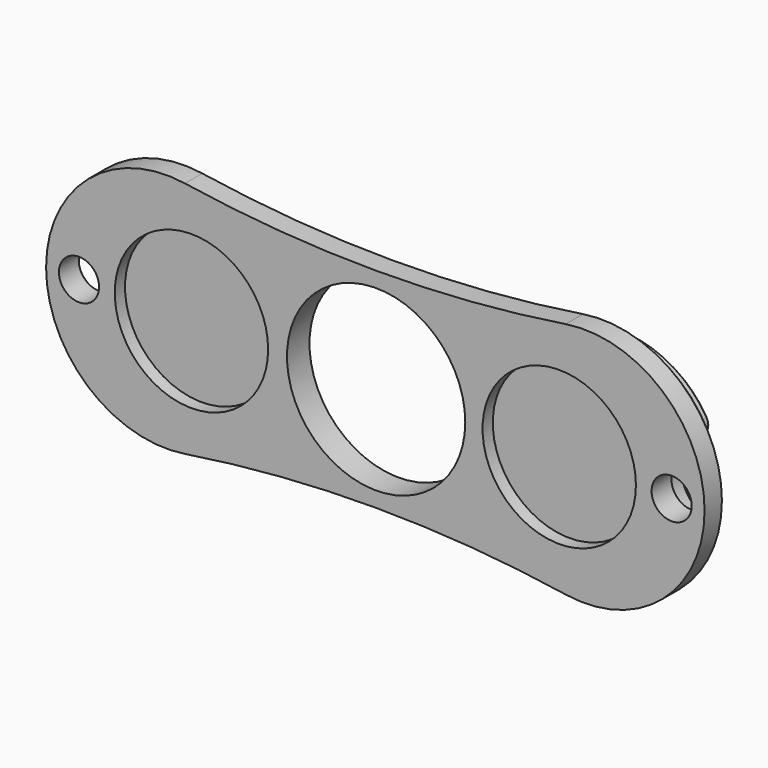
from build123d import *

# Parameters (mm, degrees)
F0_R      = 11.1
F1_DEPTH  = 7
F2_SIZE   = 0.8
F3_R      = 12.5
F4_DEPTH  = 3
F5_R      = 12.5
F6_DEPTH  = 3
F8_R      = 22.5
F9_DEPTH  = 3
F10_R     = 22.5
F11_DEPTH = 3
F12_R     = 5
F13_DEPTH = 3
F14_R     = 5
F15_DEPTH = 3
F16_R     = 5
F17_DEPTH = 3
F18_R     = 5
F19_DEPTH = 3
F20_R     = 1.5
F21_R     = 2.5
F22_DEPTH = 25
F23_R     = 2.5
F24_DEPTH = 25
F25_SIZE  = 0.4
F26_SIZE  = 0.8
F27_W     = 103.2572649419
F27_H     = 49.3412911892
F28_DEPTH = 6.5
F29_R     = 9.55
F30_DEPTH = 1.6


with BuildPart() as f1:
    # F0 (on Front) → F1 (new body)
    with BuildSketch(Plane.XZ):
        with BuildLine():
            ThreePointArc((21.7678643686, 14.8235294118), (-1.9380179843, 13), (-25.6439003372, 14.8235294118))
            ThreePointArc((-25.6439003372, 14.8235294118), (-42.9380179843, 0), (-25.6439003372, -14.8235294118))
            ThreePointArc((-25.6439003372, -14.8235294118), (-1.9380179843, -13), (21.7678643686, -14.8235294118))
            ThreePointArc((21.7678643686, -14.8235294118), (39.0619820157, 0), (21.7678643686, 14.8235294118))
        make_face()
        with Locations((-1.8380179843, 0)):
            Circle(F0_R, mode=Mode.SUBTRACT)
    extrude(amount=F1_DEPTH)

    # F2
    f2_edges = [f1.edges().sort_by_distance(p)[0] for p in [
        (-42.938018, -7, 0),
        (-1.938018, -7, -13),
        (-1.938018, 0, -13),
    ]]
    chamfer(f2_edges, length=F2_SIZE)

    # F3 (on face) → F4 (join)
    with BuildSketch(Plane.XZ.offset(7)):
        with Locations((-27.9380179843, 0)):
            Circle(F3_R)
        with Locations((24.0619820157, 0)):
            Circle(F3_R)
    extrude(amount=F4_DEPTH)

    # F5 (on face) → F6 (join)
    with BuildSketch(Plane(origin=(0, 0, 0), x_dir=(-1, 0, 0), z_dir=(0, 1, 0))):
        with Locations((-24.0619820157, 0)):
            Circle(F5_R)
        with Locations((27.9380179843, 0)):
            Circle(F5_R)
    extrude(amount=F6_DEPTH)

    # F8 (on face) → F9 (cut)
    with BuildSketch(Plane.XZ.offset(10)):
        with Locations((-1.8380179843, 0)):
            Circle(F8_R)
    extrude(amount=-F9_DEPTH, mode=Mode.SUBTRACT)

    # F10 (on face) → F11 (cut)
    with BuildSketch(Plane(origin=(0, 3, 0), x_dir=(-1, 0, 0), z_dir=(0, 1, 0))):
        with Locations((1.8380179843, 0)):
            Circle(F10_R)
    extrude(amount=-F11_DEPTH, mode=Mode.SUBTRACT)

    # F12 (on face) → F13 (cut)
    with BuildSketch(Plane(origin=(0, 3, 0), x_dir=(-1, 0, 0), z_dir=(0, 1, 0))):
        with Locations((-36.5619820157, 0)):
            Circle(F12_R)
    extrude(amount=-F13_DEPTH, mode=Mode.SUBTRACT)

    # F14 (on face) → F15 (cut)
    with BuildSketch(Plane(origin=(0, 3, 0), x_dir=(-1, 0, 0), z_dir=(0, 1, 0))):
        with Locations((40.4380179843, 0)):
            Circle(F14_R)
    extrude(amount=-F15_DEPTH, mode=Mode.SUBTRACT)

    # F16 (on face) → F17 (cut)
    with BuildSketch(Plane.XZ.offset(10)):
        with Locations((-40.4380179843, 0)):
            Circle(F16_R)
    extrude(amount=-F17_DEPTH, mode=Mode.SUBTRACT)

    # F18 (on face) → F19 (cut)
    with BuildSketch(Plane.XZ.offset(10)):
        with Locations((36.5617908537, 0)):
            Circle(F18_R)
    extrude(amount=-F19_DEPTH, mode=Mode.SUBTRACT)

    # F20
    f20_edges = [f1.edges().sort_by_distance(p)[0] for p in [
        (-39.438018, -8.5, 4.898979),
        (-39.438018, -8.5, -4.898979),
        (-21.592999, -8.5, -10.769899),
        (-21.592999, -8.5, 10.769899),
        (17.868739, -8.5, 10.857888),
        (17.868739, -8.5, -10.857888),
        (35.561967, -8.5, -4.899015),
        (35.561967, -8.5, 4.899015),
        (-21.592999, 1.5, -10.769899),
        (-21.592999, 1.5, 10.769899),
        (-39.438018, 1.5, 4.898979),
        (-39.438018, 1.5, -4.898979),
        (17.868739, 1.5, -10.857888),
        (17.868739, 1.5, 10.857888),
        (35.561982, 1.5, -4.898979),
        (35.561982, 1.5, 4.898979),
    ]]
    fillet(f20_edges, radius=F20_R)

    # F21 (on face) → F22 (cut)
    with BuildSketch(Plane.XZ.offset(7)):
        with Locations((-38.8380179843, 0)):
            Circle(F21_R)
    extrude(amount=-F22_DEPTH, mode=Mode.SUBTRACT)

    # F23 (on face) → F24 (cut)
    with BuildSketch(Plane.XZ.offset(7)):
        with Locations((34.9617908537, 0)):
            Circle(F23_R)
    extrude(amount=-F24_DEPTH, mode=Mode.SUBTRACT)

    # F25
    f25_edges = [f1.edges().sort_by_distance(p)[0] for p in [
        (-41.338018, -7, 0),
        (32.461791, -7, 0),
        (32.461791, 0, 0),
        (-41.338018, 0, 0),
    ]]
    chamfer(f25_edges, length=F25_SIZE)

    # F26
    f26_edges = [f1.edges().sort_by_distance(p)[0] for p in [
        (27.97166, -10, 11.872844),
        (18.498441, -10, 10.725925),
        (34.910055, -10, 5.322137),
        (20.661982, -10, 0),
        (31.561791, -10, 0),
        (18.498441, -10, -10.725925),
        (34.910055, -10, -5.322137),
        (27.97166, -10, -11.872844),
        (-24.338018, -10, 0),
        (-22.203581, -10, 10.646558),
        (-22.203581, -10, -10.646558),
        (-31.749718, -10, 11.904661),
        (-31.749718, -10, -11.904661),
        (-38.786142, -10, 5.322071),
        (-38.786142, -10, -5.322071),
        (-35.438018, -10, 0),
        (-24.338018, 3, 0),
        (-22.203581, 3, -10.646558),
        (-22.203581, 3, 10.646558),
        (-31.749718, 3, -11.904661),
        (-31.749718, 3, 11.904661),
        (-38.786142, 3, -5.322071),
        (-38.786142, 3, 5.322071),
        (-35.438018, 3, 0),
        (20.661982, 3, 0),
        (18.498441, 3, 10.725925),
        (18.498441, 3, -10.725925),
        (27.971709, 3, 11.872828),
        (27.971709, 3, -11.872828),
        (34.910106, 3, 5.322071),
        (34.910106, 3, -5.322071),
        (31.561982, 3, 0),
    ]]
    chamfer(f26_edges, length=F26_SIZE)

    # F27 (on face) → F28 (cut)
    with BuildSketch(Plane.XZ.offset(10)):
        with Locations((-3.2676365227, 0)):
            Rectangle(F27_W, F27_H)
    extrude(amount=-F28_DEPTH, mode=Mode.SUBTRACT)

    # F29 (on face) → F30 (cut)
    with BuildSketch(Plane.XZ.offset(3.5)):
        with Locations((-24.8380179843, 0)):
            Circle(F29_R)
        with Locations((20.9617908537, 0)):
            Circle(F29_R)
    extrude(amount=-F30_DEPTH, mode=Mode.SUBTRACT)


solid = f1.part
